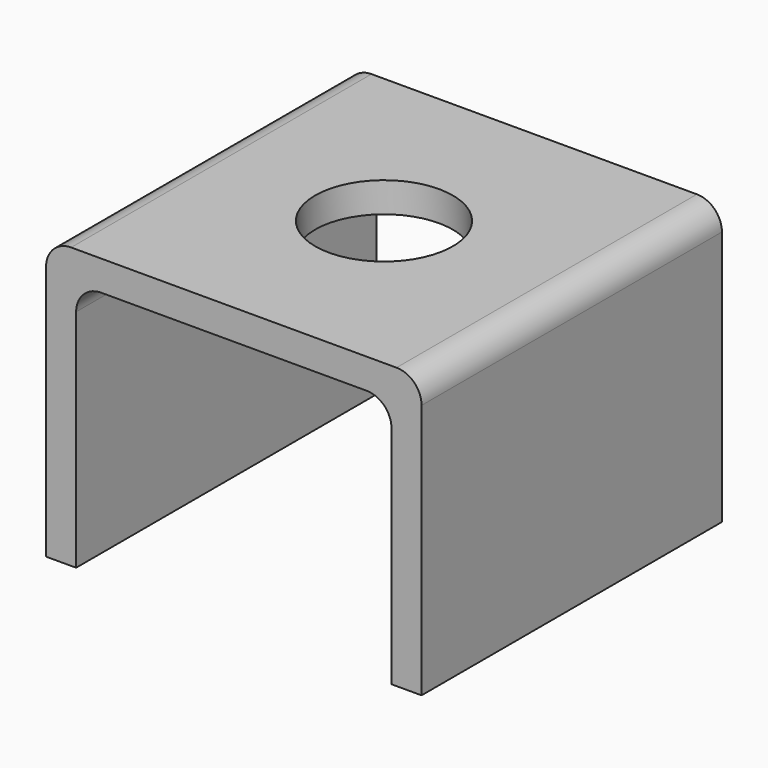
from build123d import *

# Parameters (mm, degrees)
F0_W     = 15
F0_H     = 15
F2_DEPTH = 1.2
F3_W     = 1.2
F3_H     = 15
F4_DEPTH = 10
F5_R     = 1
F6_D     = 5.5


with BuildPart() as f2:
    # F0 (on Top) → F2 (new body)
    with BuildSketch(Plane.XY):
        with Locations((-7.5, -26.9438664615)):
            Rectangle(F0_W, F0_H)
    extrude(amount=F2_DEPTH)

    # F3 (on face) → F4 (join)
    with BuildSketch(Plane.XY):
        with Locations((-0.6, -26.9438664615)):
            Rectangle(F3_W, F3_H)
        with Locations((-14.4, -26.9438664615)):
            Rectangle(F3_W, F3_H)
    extrude(amount=-F4_DEPTH)

    # F5
    f5_edges = [f2.edges().sort_by_distance(p)[0] for p in [
        (-15, -26.943866, 1.2),
        (0, -26.943866, 1.2),
        (-1.2, -26.943866, 0),
        (-13.8, -26.943866, 0),
    ]]
    fillet(f5_edges, radius=F5_R)

    # F6 (through all)
    with Locations(Plane(origin=(0, 0, 0), x_dir=(1, 0, 0), z_dir=(0, 0, -1))):
        with Locations((-7.5, 26.9438664615)):
            Hole(F6_D / 2)


solid = f2.part
